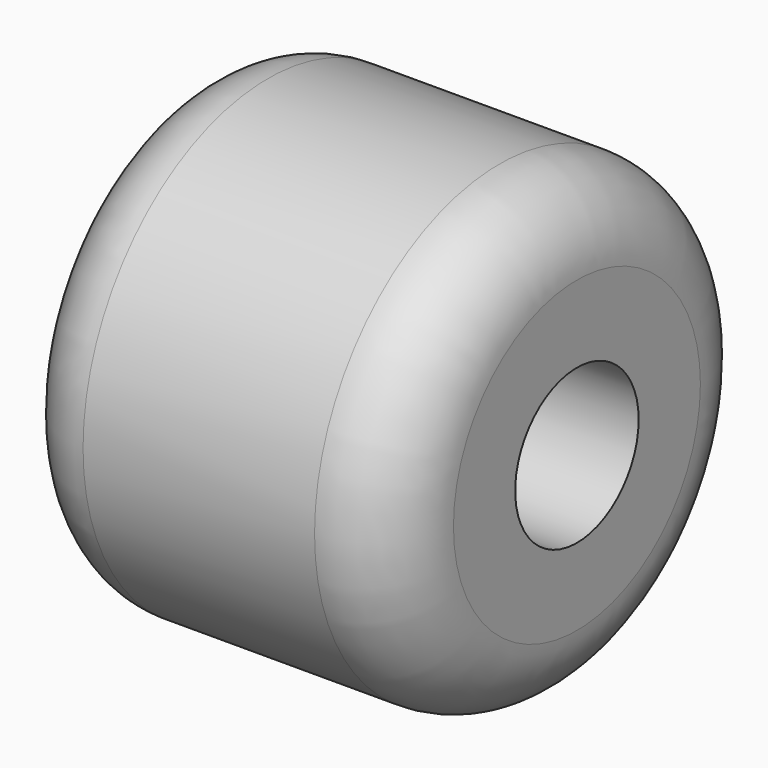
from build123d import *

# Parameters (mm, degrees)
F0_R     = 3.81
F1_DEPTH = 6.35
F2_R     = 1.27
F3_R     = 1.27
F4_DEPTH = 25.4


with BuildPart() as f1:
    # F0 (on Right) → F1 (new body)
    with BuildSketch(Plane.YZ):
        Circle(F0_R)
    extrude(amount=F1_DEPTH)

    # F2
    f2_edges = [f1.edges().sort_by_distance(p)[0] for p in [
        (6.35, -3.81, 0),
        (0, -3.81, 0),
    ]]
    fillet(f2_edges, radius=F2_R)

    # F3 (on face) → F4 (cut)
    with BuildSketch(Plane.YZ.offset(6.35)):
        Circle(F3_R)
    extrude(amount=-F4_DEPTH, mode=Mode.SUBTRACT)


solid = f1.part
